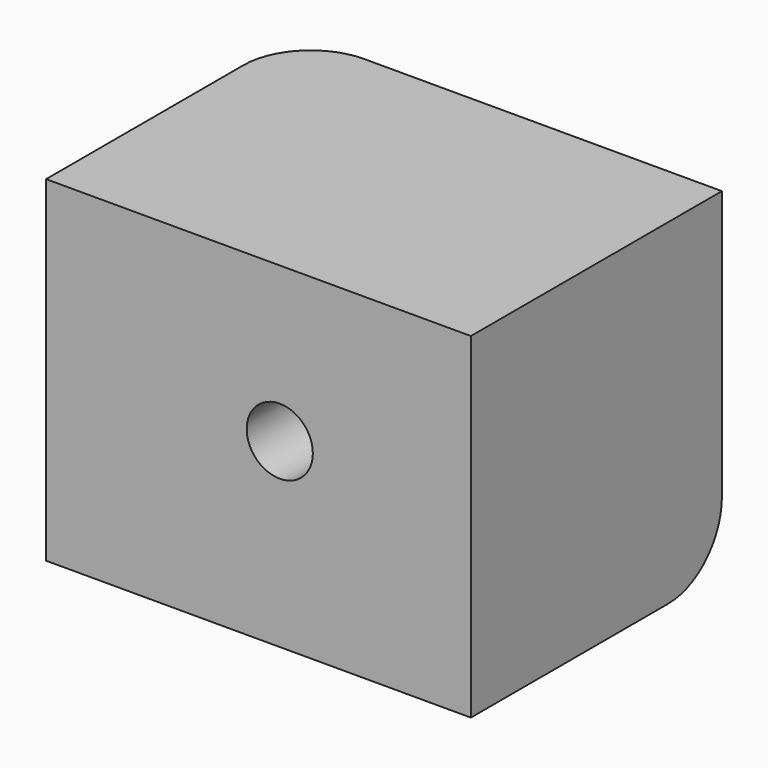
from build123d import *

# Parameters (mm, degrees)
F0_W     = 32.118473202
F0_H     = 23.727130854
F1_DEPTH = 25.4
F2_R     = 5.08
F4_D     = 5


with BuildPart() as f1:
    # F0 (on Top) → F1 (new body)
    with BuildSketch(Plane.XY):
        with Locations((16.059236601, 11.863565427)):
            Rectangle(F0_W, F0_H)
    extrude(amount=F1_DEPTH)

    # F2
    f2_edges = [f1.edges().sort_by_distance(p)[0] for p in [
        (0, 23.727131, 12.7),
        (16.059237, 23.727131, 0),
    ]]
    fillet(f2_edges, radius=F2_R)

    # F4 (through all)
    with Locations(Plane(origin=(0, 23.727130854, 0), x_dir=(-1, 0, 0), z_dir=(0, 1, 0))):
        with Locations((-17.6689904183, 13.7012554333)):
            Hole(F4_D / 2)


solid = f1.part
